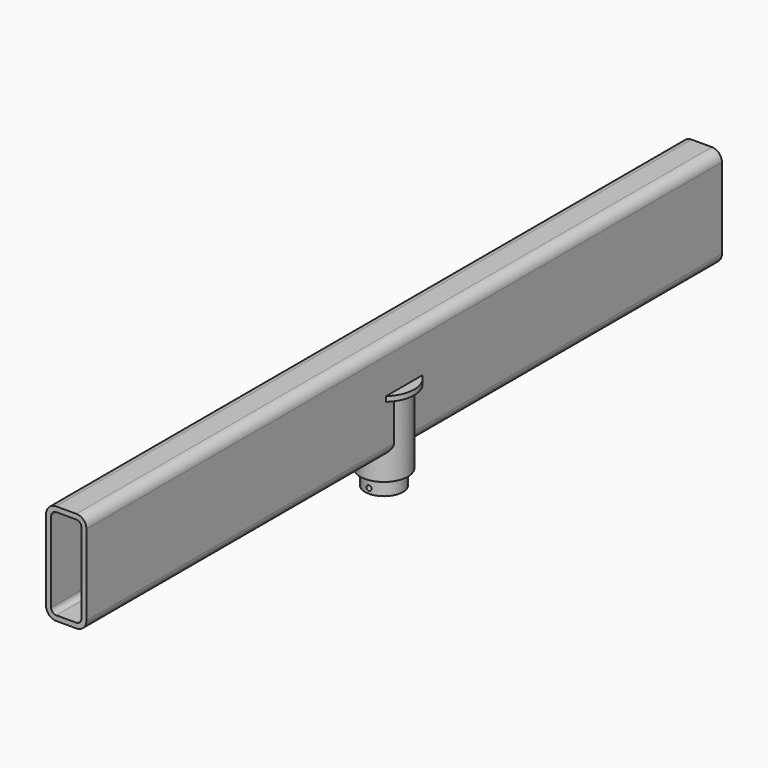
from build123d import *

# Parameters (mm, degrees)
F0_R      = 30
F1_DEPTH  = 93
F2_R      = 38.1
F3_DEPTH  = 6.35
F4_R      = 23.75
F5_DEPTH  = 19.05
F6_R      = 3.175
F7_DEPTH  = 30
F9_R      = 23.75
F10_DEPTH = 19.05
F11_R     = 3.175
F12_DEPTH = 30
F14_DEPTH = 500


with BuildPart() as f1:
    # F0 (on Top) → F1 (new body)
    with BuildSketch(Plane.XY):
        Circle(F0_R)
    extrude(amount=-F1_DEPTH)

    # F2 (on face) → F3 (join)
    with BuildSketch(Plane.XY):
        Circle(F2_R)
    extrude(amount=F3_DEPTH)

    # F9 (on face) → F10 (join)
    with BuildSketch(Plane(origin=(0, 0, -93), x_dir=(1, 0, 0), z_dir=(0, 0, -1))):
        Circle(F9_R)
    extrude(amount=F10_DEPTH)

    # F11 (on Front) → F12 (cut, symmetric)
    with BuildSketch(Plane.XZ):
        with Locations((0, -105.7)):
            Circle(F11_R)
    extrude(amount=F12_DEPTH, both=True, mode=Mode.SUBTRACT)


with BuildPart() as f5:
    # F4 (on face) → F5 (new body)
    with BuildSketch(Plane(origin=(0, 0, -93), x_dir=(1, 0, 0), z_dir=(0, 0, -1))):
        Circle(F4_R)
    extrude(amount=F5_DEPTH)

    # F6 (on Front) → F7 (cut, symmetric)
    with BuildSketch(Plane.XZ):
        with Locations((0, -105.7)):
            Circle(F6_R)
    extrude(amount=F7_DEPTH, both=True, mode=Mode.SUBTRACT)


with BuildPart() as f14:
    # F13 (on Front) → F14 (new body, symmetric)
    with BuildSketch(Plane.XZ):
        with BuildLine():
            ThreePointArc((25.4, 50.8), (21.680256, 59.780256), (12.7, 63.5))
            Line((12.7, 63.5), (-12.7, 63.5))
            ThreePointArc((-12.7, 63.5), (-21.680256, 59.780256), (-25.4, 50.8))
            Line((-25.4, 50.8), (-25.4, -50.8))
            ThreePointArc((-25.4, -50.8), (-21.680256, -59.780256), (-12.7, -63.5))
            Line((-12.7, -63.5), (12.7, -63.5))
            ThreePointArc((12.7, -63.5), (21.680256, -59.780256), (25.4, -50.8))
            Line((25.4, -50.8), (25.4, 50.8))
        make_face()
        with BuildLine():
            Line((-12.7, 57.15), (12.7, 57.15))
            ThreePointArc((12.7, 57.15), (17.190128, 55.290128), (19.05, 50.8))
            Line((19.05, 50.8), (19.05, -50.8))
            ThreePointArc((19.05, -50.8), (17.190128, -55.290128), (12.7, -57.15))
            Line((12.7, -57.15), (-12.7, -57.15))
            ThreePointArc((-12.7, -57.15), (-17.190128, -55.290128), (-19.05, -50.8))
            Line((-19.05, -50.8), (-19.05, 50.8))
            ThreePointArc((-19.05, 50.8), (-17.190128, 55.290128), (-12.7, 57.15))
        make_face(mode=Mode.SUBTRACT)
    extrude(amount=F14_DEPTH, both=True)


solid = Compound([f1.part, f14.part])
